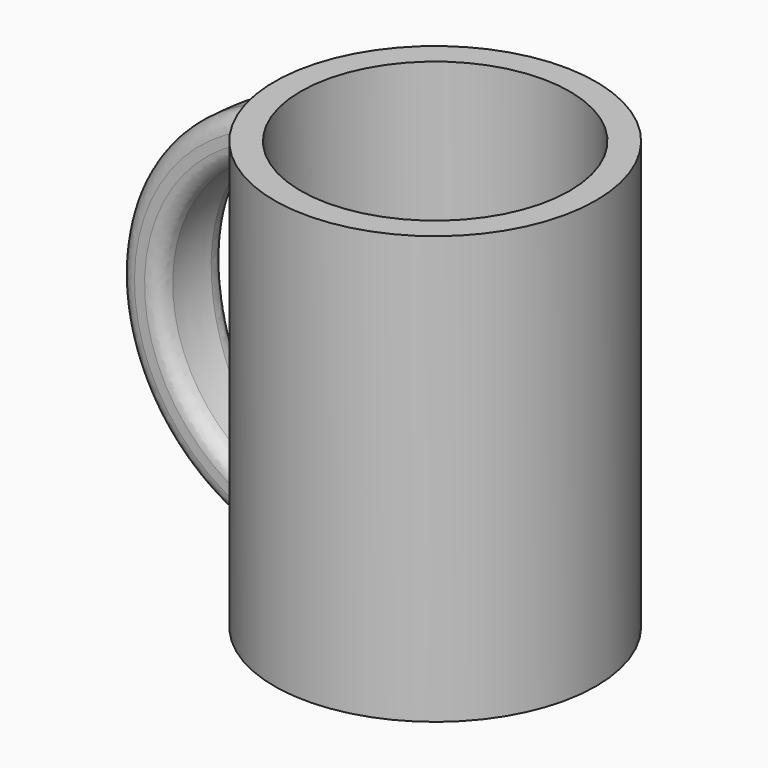
from build123d import *

# Parameters (mm, degrees)
F0_R     = 38.212329
F1_DEPTH = 101.6
F2_R     = 31.970454
F3_DEPTH = 93.98
F5_ANGLE = 15
F6_R     = 3.81


with BuildPart() as f1:
    # F0 (on Top) → F1 (new body)
    with BuildSketch(Plane.XY):
        Circle(F0_R)
    extrude(amount=F1_DEPTH)

    # F2 (on face) → F3 (cut)
    with BuildSketch(Plane.XY.offset(101.6)):
        Circle(F2_R)
    extrude(amount=-F3_DEPTH, mode=Mode.SUBTRACT)

    # F4 (on Front) → F5 (revolve)
    with BuildSketch(Plane.XZ):
        with BuildLine():
            ThreePointArc((-37.823336, 13.45957), (-65.355852, 48.945968), (-38.440386, 84.90263))
            Line((-38.440386, 84.90263), (-38.323194, 95.239505))
            ThreePointArc((-38.323194, 95.239505), (-75.359479, 49.064441), (-37.929054, 3.208294))
            Line((-37.929054, 3.208294), (-37.823336, 13.45957))
        make_face()
    revolve(axis=Axis((0, 0, 0), (0, 0, -1)), revolution_arc=F5_ANGLE)

    # F6
    f6_edges = [f1.edges().sort_by_distance(p)[0] for p in [
        (-63.130057, 16.915648, 49.147506),
        (-72.792051, 19.504571, 49.209229),
        (-65.357045, 0, 49.147506),
        (-75.359876, 0, 49.209229),
    ]]
    fillet(f6_edges, radius=F6_R)


solid = f1.part
